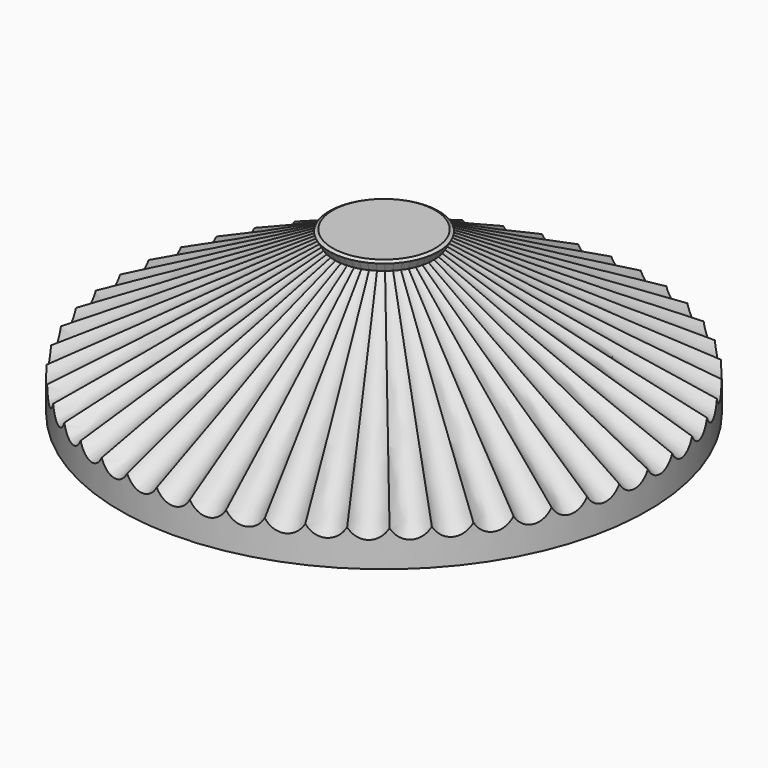
from build123d import *

# Parameters (mm, degrees)
F3_COUNT = 50


with BuildPart() as f1:
    # F0 (on Right) → F1 (revolve)
    with BuildSketch(Plane.YZ):
        Polygon((-19.6782910804, -4.3906444807), (-22.070411697, 0), (-109.8833013101, -47.8424123326), (-106.0559083235, -54.8674435016), align=None)
    revolve(axis=Axis((0, -65.9768565036, -23.9212061663), (0, -0.8781288961, -0.4784241233)))

    # F3: F1 ×50 about axis
    f3_axis = Axis((0, 0, -23.136049509), (0, 0, -1))


with BuildPart() as f1_1:
    add(f1.part)
    for i in range(1, F3_COUNT):
        add(f1.part.rotate(f3_axis, i * 360 / F3_COUNT))


with BuildPart() as f5:
    # F4 (on Right) → F5 (revolve)
    with BuildSketch(Plane.YZ):
        Polygon((0, -64.3728788964), (0, 0), (-20.4049758613, 0), (-104.8646271229, -46.1784154177), (-104.8646271229, -64.3728788964), align=None)
    revolve(axis=Axis((0, 0, -32.1864394482), (0, 0, 1)))

    # F6: cut F1
    add(f1_1.part, mode=Mode.SUBTRACT)


solid = f5.part
